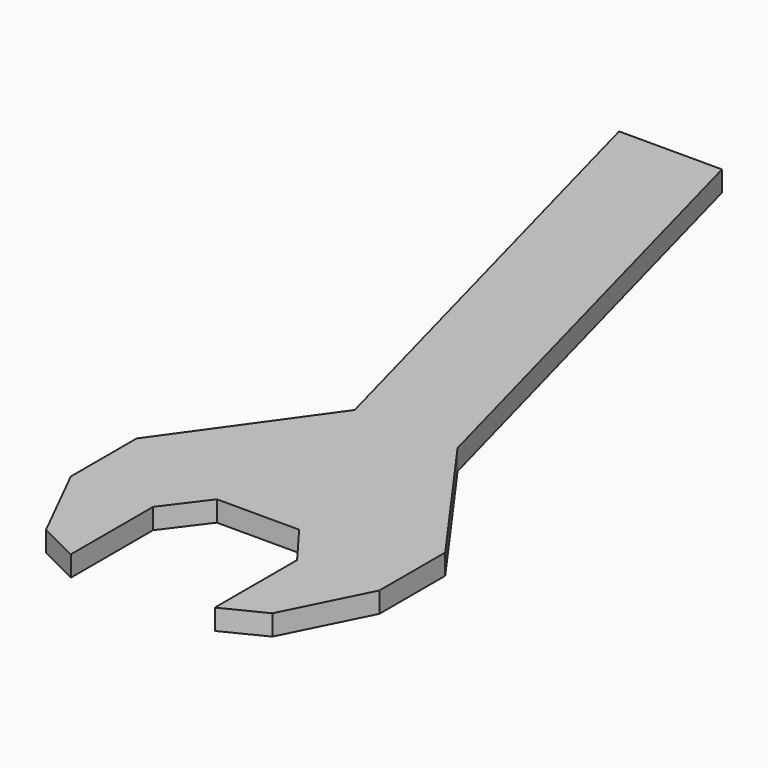
from build123d import *

# Parameters (mm, degrees)
F1_DEPTH = 10


with BuildPart() as f1:
    # F0 (on Top) → F1 (new body)
    with BuildSketch(Plane.XY):
        Polygon((-35, -20), (-20, 0), (20, 0), (35, -20), (35, -70), (55, -60), (75, -20), (75, 20), (25, 90), (-39.704761, 331.481457), (-89.704761, 331.481457), (-25, 90), (-75, 20), (-75, -20), (-55, -60), (-35, -70), align=None)
    extrude(amount=F1_DEPTH)


solid = f1.part
